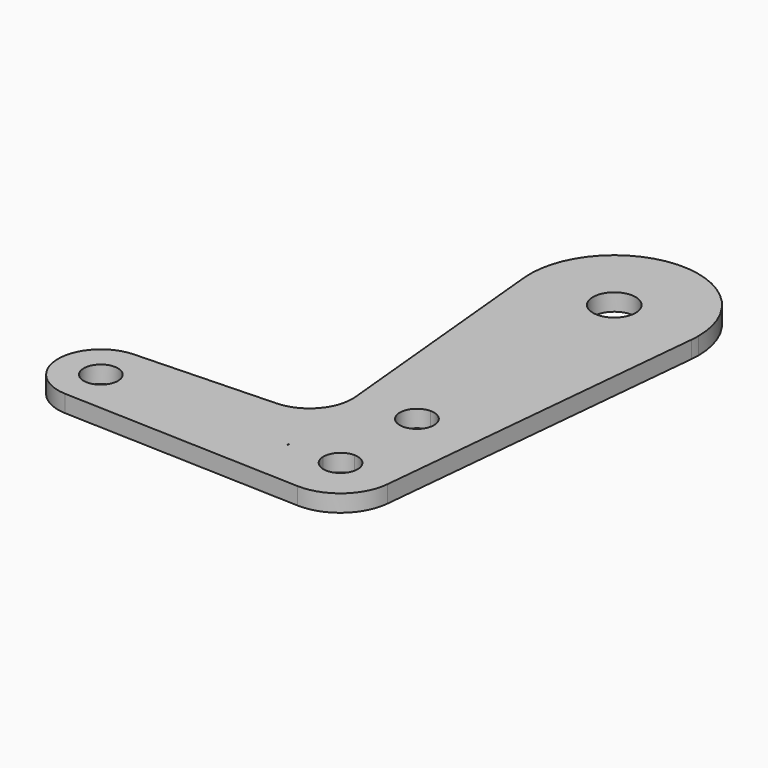
from build123d import *

# Parameters (mm, degrees)
F0_R     = 3.175
F1_DEPTH = 3.175
F2_R     = 7.9375


with BuildPart() as f1:
    # F0 (on Top) → F1 (new body)
    with BuildSketch(Plane.XY):
        with BuildLine():
            ThreePointArc((0, 47.9294871607), (10.5025889585, 51.9871283852), (15.5489666728, 62.0520625183))
            ThreePointArc((15.5489666728, 62.0520625183), (15.602981276, 62.8004096298), (15.621, 63.5504871607))
            ThreePointArc((15.621, 63.5504871607), (-0.7500775309, 79.1534684366), (-15.5489666728, 62.0520625183))
            ThreePointArc((-15.5489666728, 62.0520625183), (-10.5025889585, 51.9871283852), (0, 47.9294871607))
        make_face()
        with BuildLine():
            ThreePointArc((3.96875, 63.5504871607), (2.8063300378, 60.7441571228), (0, 59.5817371607))
            ThreePointArc((0, 59.5817371607), (-2.8063300378, 66.3568171985), (3.96875, 63.5504871607))
        make_face(mode=Mode.SUBTRACT)
        with BuildLine():
            Line((-10.4516240063, 9.1575698645), (-0.3401788169, 9.5189234356))
            Line((-0.3401788169, 9.5189234356), (0, 9.5310804347))
            Line((0, 9.5310804347), (0, 14.5875889826))
            ThreePointArc((0, 14.5875889826), (-3.175, 17.7625889826), (0, 20.9375889826))
            Line((0, 20.9375889826), (0, 47.9294871607))
            ThreePointArc((0, 47.9294871607), (-10.5025889585, 51.9871283852), (-15.5489666728, 62.0520625183))
            Line((-15.5489666728, 62.0520625183), (-10.4516240063, 9.1575698645))
        make_face()
        with BuildLine():
            ThreePointArc((9.525, 0), (9.5140129731, -0.4573643481), (9.4810772395, -0.9136735625))
            Line((9.4810772395, -0.9136735625), (15.5489666728, 62.0520625183))
            ThreePointArc((15.5489666728, 62.0520625183), (10.5025889585, 51.9871283852), (0, 47.9294871607))
            Line((0, 47.9294871607), (0, 20.9375889826))
            ThreePointArc((0, 20.9375889826), (2.2450640303, 20.0076530128), (3.175, 17.7625889826))
            ThreePointArc((3.175, 17.7625889826), (2.2450640303, 15.5175249523), (0, 14.5875889826))
            Line((0, 14.5875889826), (0, 9.5310804347))
            Line((0, 9.5310804347), (0, 9.525))
            ThreePointArc((0, 9.525), (6.7351920908, 6.7351920908), (9.525, 0))
        make_face()
        with BuildLine():
            Line((-36.5125, 0), (-9.5691262404, 0))
            Line((-9.5691262404, 0), (-10.4516240063, 9.1575698645))
            Line((-10.4516240063, 9.1575698645), (-44.7334821429, 7.9324362036))
            ThreePointArc((-44.7334821429, 7.9324362036), (-38.9384772185, 5.7120069047), (-36.5125, 0))
        make_face()
        with BuildLine():
            ThreePointArc((-0.3401785714, -9.5189234444), (-6.5289239395, -6.9353281964), (-9.4810772395, -0.9136735625))
            Line((-9.4810772395, -0.9136735625), (-9.5691262404, 0))
            Line((-9.5691262404, 0), (-36.5125, 0))
            ThreePointArc((-36.5125, 0), (-38.9384772185, -5.7120069047), (-44.7334821429, -7.9324362036))
            Line((-44.7334821429, -7.9324362036), (-0.3401785714, -9.5189234444))
        make_face()
        with BuildLine():
            ThreePointArc((-44.7334821429, 7.9324362036), (-52.3875, 0), (-44.7334821429, -7.9324362036))
            ThreePointArc((-44.7334821429, -7.9324362036), (-38.9384772185, -5.7120069047), (-36.5125, 0))
            ThreePointArc((-36.5125, 0), (-38.9384772185, 5.7120069047), (-44.7334821429, 7.9324362036))
        make_face()
        with Locations((-44.45, 0)):
            Circle(F0_R, mode=Mode.SUBTRACT)
        with BuildLine():
            ThreePointArc((-9.525, 0), (-9.5140129731, -0.4573643481), (-9.4810772395, -0.9136735625))
            ThreePointArc((-9.4810772395, -0.9136735625), (-6.5289239395, -6.9353281964), (-0.3401785714, -9.5189234444))
            ThreePointArc((-0.3401785714, -9.5189234444), (6.2770684637, -7.1640795991), (9.4810772395, -0.9136735625))
            ThreePointArc((9.4810772395, -0.9136735625), (9.5140129731, -0.4573643481), (9.525, 0))
            ThreePointArc((9.525, 0), (6.7351920908, 6.7351920908), (0, 9.525))
            Line((0, 9.525), (0, 3.2254871607))
            ThreePointArc((0, 3.2254871607), (2.2450640303, 2.2955511909), (3.175, 0.0504871607))
            ThreePointArc((3.175, 0.0504871607), (0.0252443783, -3.1244124789), (-3.1745985646, 0))
            Line((-3.1745985646, 0), (-9.525, 0))
        make_face()
        with BuildLine():
            ThreePointArc((-0.3401788169, 9.5189234356), (-6.8544083709, 6.6138272494), (-9.525, 0))
            Line((-9.525, 0), (-3.1745985646, 0))
            ThreePointArc((-3.1745985646, 0), (-2.2628435358, 2.2776297543), (0, 3.2254871607))
            Line((0, 3.2254871607), (0, 9.525))
            ThreePointArc((0, 9.525), (-0.1701165425, 9.5234807377), (-0.3401788169, 9.5189234356))
        make_face()
        with BuildLine():
            Line((-9.5691262404, 0), (-9.525, 0))
            ThreePointArc((-9.525, 0), (-6.8544083709, 6.6138272494), (-0.3401788169, 9.5189234356))
            Line((-0.3401788169, 9.5189234356), (-10.4516240063, 9.1575698645))
            Line((-10.4516240063, 9.1575698645), (-9.5691262404, 0))
        make_face()
    extrude(amount=F1_DEPTH)

    # F2
    f2_edges = [f1.edges().sort_by_distance(p)[0] for p in [
        (-10.451624, 9.15757, 1.5875),
    ]]
    fillet(f2_edges, radius=F2_R)


solid = f1.part
